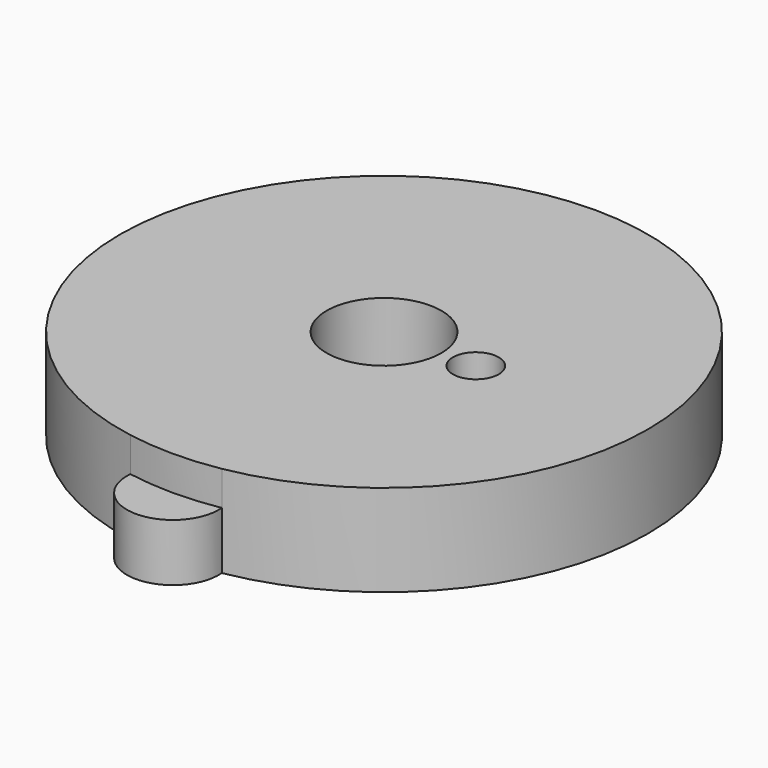
from build123d import *

# Parameters (mm, degrees)
F0_R     = 5
F0_R_2   = 2
F1_DEPTH = 8
F3_DEPTH = 3


with BuildPart() as f1:
    # F0 (on Top) → F1 (new body)
    with BuildSketch(Plane.XY):
        with BuildLine():
            ThreePointArc((3.984848, 22.652174), (0, 27), (-3.984848, 22.652174))
            ThreePointArc((-3.984848, 22.652174), (-23, 0), (-3.984848, -22.652174))
            ThreePointArc((-3.984848, -22.652174), (0, -27), (3.984848, -22.652174))
            ThreePointArc((3.984848, -22.652174), (23, 0), (3.984848, 22.652174))
        make_face()
        Circle(F0_R, mode=Mode.SUBTRACT)
        with Locations((8, 0)):
            Circle(F0_R_2, mode=Mode.SUBTRACT)
    extrude(amount=F1_DEPTH)

    # F2 (on face) → F3 (cut)
    with BuildSketch(Plane.XY.offset(8)):
        with BuildLine():
            ThreePointArc((-3.984848, 22.652174), (0, 23), (3.984848, 22.652174))
            ThreePointArc((3.984848, 22.652174), (0, 27), (-3.984848, 22.652174))
        make_face()
        with BuildLine():
            ThreePointArc((-3.984848, -22.652174), (0, -27), (3.984848, -22.652174))
            ThreePointArc((3.984848, -22.652174), (0, -23), (-3.984848, -22.652174))
        make_face()
    extrude(amount=-F3_DEPTH, mode=Mode.SUBTRACT)


solid = f1.part
